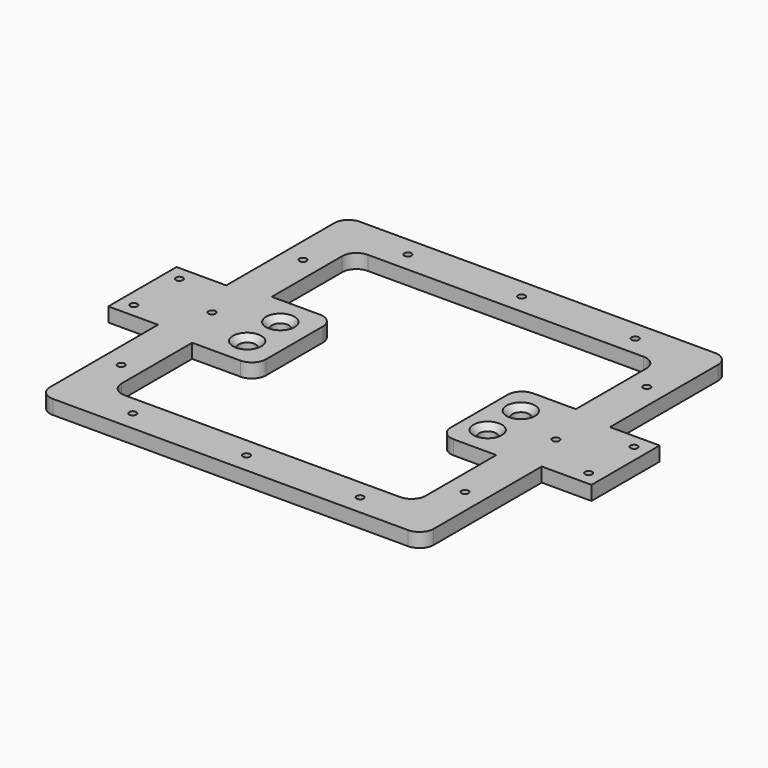
from build123d import *

# Parameters (mm, degrees)
F1_DEPTH       = 5
F2_D           = 2.5
F2_CSINK_D     = 4
F2_CSINK_ANGLE = 90
F3_R           = 5
F4_R           = 5
F6_D           = 6
F6_DEPTH       = 12
F6_CSINK_D     = 10
F6_CSINK_ANGLE = 90
F6_TIP         = 1.8025818571


with BuildPart() as f1:
    # F0 (on Top) → F1 (new body)
    with BuildSketch(Plane.XY):
        Polygon((-67.5, -67.5), (67.5, -67.5), (67.5, -15), (67.5, 0), (67.5, 15), (67.5, 67.5), (-67.5, 67.5), (-67.5, 15), (-67.5, 0), (-67.5, -15), align=None)
        Polygon((-53.5, 17.5), (-53.5, 53.5), (53.5, 53.5), (53.5, 17.5), (53.5, 0), (53.5, -17.5), (53.5, -53.5), (-53.5, -53.5), (-53.5, -17.5), align=None, mode=Mode.SUBTRACT)
        Polygon((-31.5, 17.5), (-53.5, 17.5), (-53.5, -17.5), (-31.5, -17.5), (-31.5, 0), align=None)
        Polygon((53.5, 0), (53.5, 17.5), (33.5, 17.5), (33.5, 0), (33.5, -17.5), (53.5, -17.5), align=None)
        Polygon((-85, -15), (-67.5, -15), (-67.5, 0), (-67.5, 15), (-85, 15), (-85, 0), align=None)
        Polygon((67.5, 0), (67.5, -15), (85, -15), (85, 0), (85, 15), (67.5, 15), align=None)
    extrude(amount=F1_DEPTH)

    # F2 (through all)
    with Locations(Plane(origin=(0, 0, 0), x_dir=(1, 0, 0), z_dir=(0, 0, -1))):
        with Locations((-60.5, 0), (-60.5, 40), (-60.5, -40), (-40, -60.5), (0, -60.5), (40, -60.5), (60.5, -40), (60.5, 0), (60.5, 40), (40, 60.5), (0, 60.5), (-40, 60.5), (-80, 10), (-80, -10), (80, 10), (80, -10)):
            CounterSinkHole(F2_D / 2, F2_CSINK_D / 2, counter_sink_angle=F2_CSINK_ANGLE)

    # F3
    f3_edges = [f1.edges().sort_by_distance(p)[0] for p in [
        (-31.5, 17.5, 2.5),
        (33.5, -17.5, 2.5),
        (33.5, 17.5, 2.5),
        (-67.5, 67.5, 2.5),
        (67.5, 67.5, 2.5),
        (67.5, -67.5, 2.5),
        (-31.5, -17.5, 2.5),
        (-67.5, -67.5, 2.5),
    ]]
    fillet(f3_edges, radius=F3_R)

    # F4
    f4_edges = [f1.edges().sort_by_distance(p)[0] for p in [
        (-53.5, -53.5, 2.5),
        (-53.5, 53.5, 2.5),
        (53.5, -53.5, 2.5),
        (53.5, 53.5, 2.5),
    ]]
    fillet(f4_edges, radius=F4_R)

    # F6
    with Locations(Plane.XY.offset(5)):
        with Locations((-42.3126109545, 7.2952777508), (-42.3126109545, -7.2952777508), (42.3126109545, 7.2952777508), (42.3126109545, -7.2952777508)):
            CounterSinkHole(F6_D / 2, F6_CSINK_D / 2, depth=F6_DEPTH, counter_sink_angle=F6_CSINK_ANGLE)
            with Locations((0, 0, -(F6_DEPTH + F6_TIP / 2))):  # 118° drill point
                Cone(0, F6_D / 2, F6_TIP, mode=Mode.SUBTRACT)


solid = f1.part
